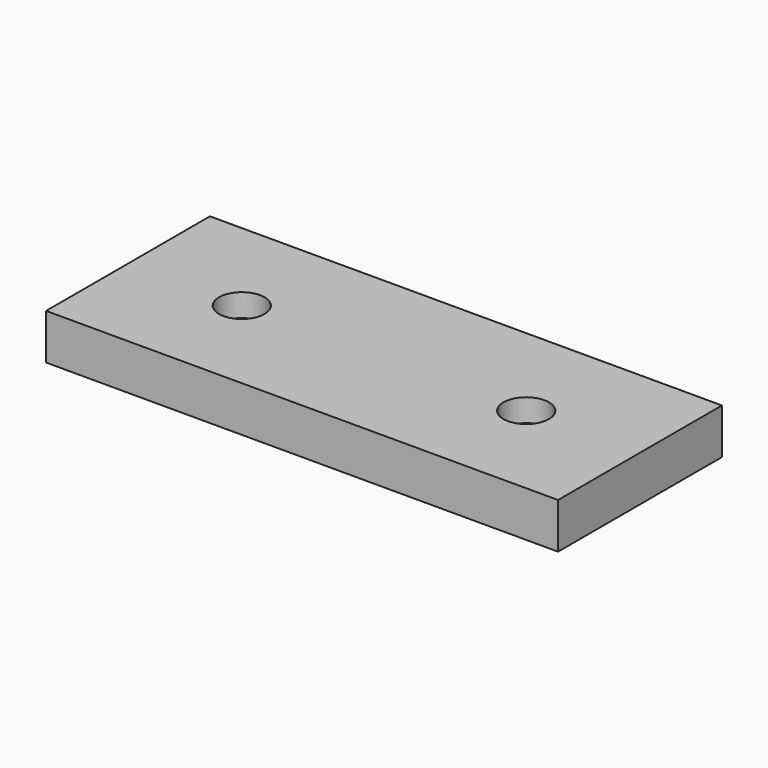
from build123d import *

# Parameters (mm, degrees)
F0_W     = 45
F0_H     = 18
F1_DEPTH = 4
F3_DEPTH = 2
F4_R     = 2
F5_DEPTH = 25


with BuildPart() as f1:
    # F0 (on Top) → F1 (new body)
    with BuildSketch(Plane.XY):
        Rectangle(F0_W, F0_H)
        Polygon((-12.5, 4.0414518843), (-9, 2.0207259422), (-9, -2.0207259422), (-12.5, -4.0414518843), (-16, -2.0207259422), (-16, 2.0207259422), align=None, mode=Mode.SUBTRACT)
        Polygon((12.5, 4.0414518843), (16, 2.0207259422), (16, -2.0207259422), (12.5, -4.0414518843), (9, -2.0207259422), (9, 2.0207259422), align=None, mode=Mode.SUBTRACT)
        Polygon((-9, -2.0207259422), (-9, 2.0207259422), (-12.5, 4.0414518843), (-16, 2.0207259422), (-16, -2.0207259422), (-12.5, -4.0414518843), align=None)
        Polygon((16, -2.0207259422), (16, 2.0207259422), (12.5, 4.0414518843), (9, 2.0207259422), (9, -2.0207259422), (12.5, -4.0414518843), align=None)
    extrude(amount=F1_DEPTH)

    # F2 (on face) → F3 (cut)
    with BuildSketch(Plane(origin=(0, 0, 0), x_dir=(1, 0, 0), z_dir=(0, 0, -1))):
        with BuildLine():
            ThreePointArc((-9.4689111711, -1.750000146), (-9.1192596298, -0.9058667393), (-9, 0))
            ThreePointArc((-9, 0), (-9.1192596232, 0.9058667146), (-9.4689111455, 1.7500001018))
            ThreePointArc((-9.4689111455, 1.7500001018), (-10.7500000509, 3.0310889426), (-12.5, 3.5))
            ThreePointArc((-12.5, 3.5), (-14.2499999465, 3.0310889441), (-15.5310888515, 1.750000107))
            ThreePointArc((-15.5310888515, 1.750000107), (-16, 1.113e-07), (-15.5310889628, -1.7499999142))
            ThreePointArc((-15.5310889628, -1.7499999142), (-14.2500000429, -3.0310888885), (-12.5, -3.5))
            ThreePointArc((-12.5, -3.5), (-10.750000073, -3.0310889554), (-9.4689111711, -1.750000146))
        make_face()
        with BuildLine():
            ThreePointArc((-15.5310888515, 1.750000107), (-14.2499999465, 3.0310889441), (-12.5, 3.5))
            Line((-12.5, 3.5), (-14.5207259422, 3.5))
            Line((-14.5207259422, 3.5), (-15.5310888515, 1.750000107))
        make_face()
        with BuildLine():
            ThreePointArc((-15.5310889628, -1.7499999142), (-16, 1.113e-07), (-15.5310888515, 1.750000107))
            Line((-15.5310888515, 1.750000107), (-16.5414518843, 0))
            Line((-16.5414518843, 0), (-15.5310889628, -1.7499999142))
        make_face()
        with BuildLine():
            Line((-14.5207259422, -3.5), (-12.5, -3.5))
            ThreePointArc((-12.5, -3.5), (-14.2500000429, -3.0310888885), (-15.5310889628, -1.7499999142))
            Line((-15.5310889628, -1.7499999142), (-14.5207259422, -3.5))
        make_face()
        with BuildLine():
            Line((-10.4792740578, -3.5), (-9.4689111711, -1.750000146))
            ThreePointArc((-9.4689111711, -1.750000146), (-10.750000073, -3.0310889554), (-12.5, -3.5))
            Line((-12.5, -3.5), (-10.4792740578, -3.5))
        make_face()
        with BuildLine():
            ThreePointArc((-9.4689111455, 1.7500001018), (-9.1192596232, 0.9058667146), (-9, 0))
            ThreePointArc((-9, 0), (-9.1192596298, -0.9058667393), (-9.4689111711, -1.750000146))
            Line((-9.4689111711, -1.750000146), (-8.4585481157, 0))
            Line((-8.4585481157, 0), (-9.4689111455, 1.7500001018))
        make_face()
        with BuildLine():
            ThreePointArc((-12.5, 3.5), (-10.7500000509, 3.0310889426), (-9.4689111455, 1.7500001018))
            Line((-9.4689111455, 1.7500001018), (-10.4792740578, 3.5))
            Line((-10.4792740578, 3.5), (-12.5, 3.5))
        make_face()
        with BuildLine():
            ThreePointArc((15.5310888131, -1.7500001734), (15.8807403661, -0.9058667546), (16, 0))
            ThreePointArc((16, 0), (15.8807403727, 0.9058667299), (15.5310888387, 1.7500001291))
            ThreePointArc((15.5310888387, 1.7500001291), (14.2499999354, 3.0310889505), (12.5, 3.5))
            ThreePointArc((12.5, 3.5), (10.7499999929, 3.0310889092), (9.4689110786, 1.7499999859))
            ThreePointArc((9.4689110786, 1.7499999859), (9, -1.92e-08), (9.4689110978, -1.7500000191))
            ThreePointArc((9.4689110978, -1.7500000191), (10.7500000096, -3.0310889188), (12.5, -3.5))
            ThreePointArc((12.5, -3.5), (14.2499999133, -3.0310889633), (15.5310888131, -1.7500001734))
        make_face()
        with BuildLine():
            ThreePointArc((15.5310888387, 1.7500001291), (15.8807403727, 0.9058667299), (16, 0))
            ThreePointArc((16, 0), (15.8807403661, -0.9058667546), (15.5310888131, -1.7500001734))
            Line((15.5310888131, -1.7500001734), (16.5414518843, 0))
            Line((16.5414518843, 0), (15.5310888387, 1.7500001291))
        make_face()
        with BuildLine():
            Line((14.5207259422, -3.5), (15.5310888131, -1.7500001734))
            ThreePointArc((15.5310888131, -1.7500001734), (14.2499999133, -3.0310889633), (12.5, -3.5))
            Line((12.5, -3.5), (14.5207259422, -3.5))
        make_face()
        with BuildLine():
            Line((10.4792740578, -3.5), (12.5, -3.5))
            ThreePointArc((12.5, -3.5), (10.7500000096, -3.0310889188), (9.4689110978, -1.7500000191))
            Line((9.4689110978, -1.7500000191), (10.4792740578, -3.5))
        make_face()
        with BuildLine():
            ThreePointArc((9.4689110978, -1.7500000191), (9, -1.92e-08), (9.4689110786, 1.7499999859))
            Line((9.4689110786, 1.7499999859), (8.4585481157, 0))
            Line((8.4585481157, 0), (9.4689110978, -1.7500000191))
        make_face()
        with BuildLine():
            ThreePointArc((9.4689110786, 1.7499999859), (10.7499999929, 3.0310889092), (12.5, 3.5))
            Line((12.5, 3.5), (10.4792740578, 3.5))
            Line((10.4792740578, 3.5), (9.4689110786, 1.7499999859))
        make_face()
        with BuildLine():
            ThreePointArc((12.5, 3.5), (14.2499999354, 3.0310889505), (15.5310888387, 1.7500001291))
            Line((15.5310888387, 1.7500001291), (14.5207259422, 3.5))
            Line((14.5207259422, 3.5), (12.5, 3.5))
        make_face()
    extrude(amount=-F3_DEPTH, mode=Mode.SUBTRACT)

    # F4 (on face) → F5 (cut)
    with BuildSketch(Plane(origin=(0, 0, 0), x_dir=(1, 0, 0), z_dir=(0, 0, -1))):
        with Locations((-12.5, 0)):
            Circle(F4_R)
        with Locations((12.5, 0)):
            Circle(F4_R)
    extrude(amount=-F5_DEPTH, mode=Mode.SUBTRACT)


solid = f1.part
